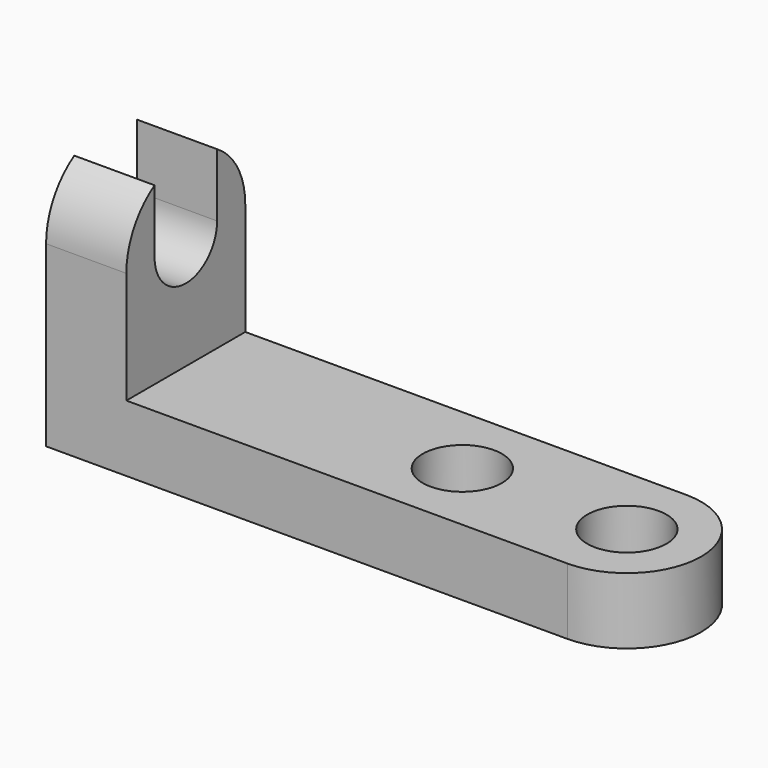
from build123d import *

# Parameters (mm, degrees)
F0_R     = 7.576774
F0_W     = 15.357372
F0_H     = 28.439574
F1_DEPTH = 12.7
F2_DEPTH = 50.8
F4_DEPTH = 113.948894
F5_DEPTH = 113.948894


with BuildPart() as f1:
    # F0 (on Top) → F1 (new body)
    with BuildSketch(Plane.XY):
        with BuildLine():
            ThreePointArc((49.864054, -14.219787), (64.083841, 0), (49.864054, 14.219787))
            Line((49.864054, 14.219787), (-34.506682, 14.219787))
            Line((-34.506682, 14.219787), (-34.506682, -14.219787))
            Line((-34.506682, -14.219787), (49.864054, -14.219787))
        make_face()
        with Locations((18.390924, 0)):
            Circle(F0_R, mode=Mode.SUBTRACT)
        with Locations((49.864054, 0)):
            Circle(F0_R, mode=Mode.SUBTRACT)
        with Locations((-42.185368, 0)):
            Rectangle(F0_W, F0_H)
    extrude(amount=F1_DEPTH)

    # F0 (on Top) → F2 (join)
    with BuildSketch(Plane.XY):
        with Locations((-42.185368, 0)):
            Rectangle(F0_W, F0_H)
    extrude(amount=F2_DEPTH)

    # F3 (on face) → F4 (cut, through all)
    with BuildSketch(Plane(origin=(-49.864054, 0, 0), x_dir=(0, -1, 0), z_dir=(-1, 0, 0))):
        with BuildLine():
            ThreePointArc((7.478881, 46.221647), (12.420758, 41.05043), (14.219787, 34.127489))
            Line((14.219787, 34.127489), (14.219787, 50.8))
            Line((14.219787, 50.8), (7.478881, 50.8))
            Line((7.478881, 50.8), (7.478881, 46.221647))
        make_face()
        with BuildLine():
            Line((7.478881, 34.127489), (7.478881, 46.221647))
            Line((7.478881, 46.221647), (7.478881, 50.8))
            Line((7.478881, 50.8), (-7.478881, 50.8))
            Line((-7.478881, 50.8), (-7.478881, 46.221647))
            Line((-7.478881, 46.221647), (-7.478881, 34.127489))
            ThreePointArc((-7.478881, 34.127489), (0, 26.648607), (7.478881, 34.127489))
        make_face()
        with BuildLine():
            Line((-7.478881, 46.221647), (-7.478881, 50.8))
            Line((-7.478881, 50.8), (-14.219787, 50.8))
            Line((-14.219787, 50.8), (-14.219787, 34.127489))
            ThreePointArc((-14.219787, 34.127489), (-12.420758, 41.05043), (-7.478881, 46.221647))
        make_face()
    extrude(amount=-F4_DEPTH, mode=Mode.SUBTRACT)

    # F3 (on face) → F5 (cut, through all)
    with BuildSketch(Plane(origin=(-49.864054, 0, 0), x_dir=(0, -1, 0), z_dir=(-1, 0, 0))):
        with BuildLine():
            ThreePointArc((7.478881, 46.221647), (12.420758, 41.05043), (14.219787, 34.127489))
            Line((14.219787, 34.127489), (14.219787, 50.8))
            Line((14.219787, 50.8), (7.478881, 50.8))
            Line((7.478881, 50.8), (7.478881, 46.221647))
        make_face()
        with BuildLine():
            Line((7.478881, 34.127489), (7.478881, 46.221647))
            Line((7.478881, 46.221647), (7.478881, 50.8))
            Line((7.478881, 50.8), (-7.478881, 50.8))
            Line((-7.478881, 50.8), (-7.478881, 46.221647))
            Line((-7.478881, 46.221647), (-7.478881, 34.127489))
            ThreePointArc((-7.478881, 34.127489), (0, 26.648607), (7.478881, 34.127489))
        make_face()
        with BuildLine():
            Line((-7.478881, 46.221647), (-7.478881, 50.8))
            Line((-7.478881, 50.8), (-14.219787, 50.8))
            Line((-14.219787, 50.8), (-14.219787, 34.127489))
            ThreePointArc((-14.219787, 34.127489), (-12.420758, 41.05043), (-7.478881, 46.221647))
        make_face()
    extrude(amount=-F5_DEPTH, mode=Mode.SUBTRACT)


solid = f1.part
